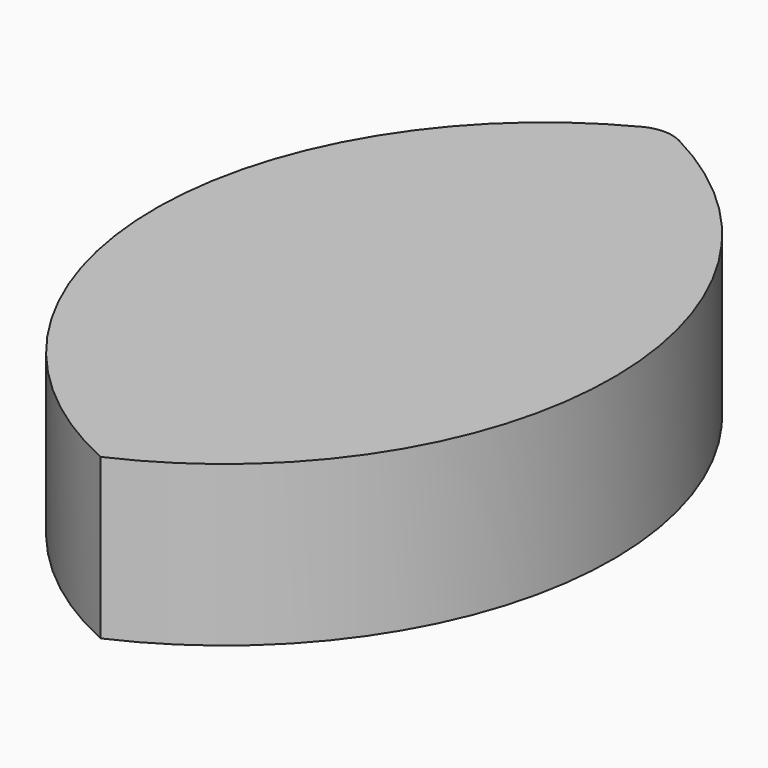
from build123d import *

# Parameters (mm, degrees)
F1_DEPTH = 25.4


with BuildPart() as f1:
    # F0 (on Top) → F1 (new body)
    with BuildSketch(Plane.XY):
        with BuildLine():
            ThreePointArc((-2.910437, 54.721587), (-36.35629, -1.817737), (0, -56.530993))
            ThreePointArc((0, -56.530993), (36.366144, -1.817747), (2.910798, 54.722288))
            ThreePointArc((2.910798, 54.722288), (9.6e-05, 55.428286), (-2.910437, 54.721587))
        make_face()
    extrude(amount=F1_DEPTH)


solid = f1.part
